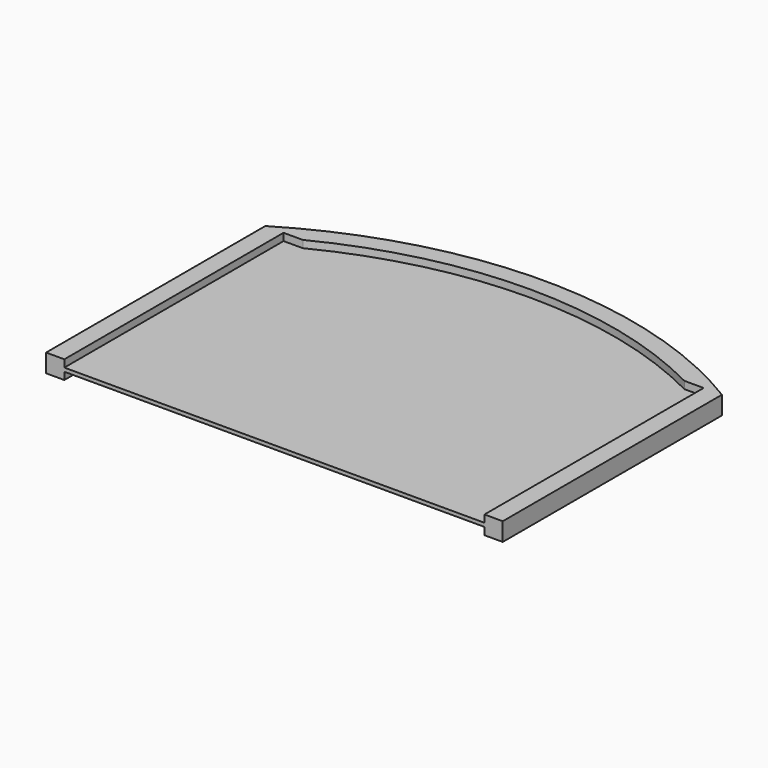
from build123d import *

# Parameters (mm, degrees)
F1_DEPTH = 10
F3_DEPTH = 4
F4_DEPTH = 4


with BuildPart() as f1:
    # F0 (on Top) → F1 (new body)
    with BuildSketch(Plane.XY):
        with BuildLine():
            Line((115, 150), (115, 0))
            Line((115, 0), (125, 0))
            Line((125, 0), (125, 150))
            ThreePointArc((125, 150), (0, 185), (-125, 150))
            Line((-125, 150), (-125, 0))
            Line((-125, 0), (-115, 0))
            Line((-115, 0), (-115, 150))
            Line((-115, 150), (-104.454365, 150))
            ThreePointArc((-104.454365, 150), (0, 175), (104.454365, 150))
            Line((104.454365, 150), (115, 150))
        make_face()
        with BuildLine():
            Line((-115, 0), (115, 0))
            Line((115, 0), (115, 150))
            Line((115, 150), (104.454365, 150))
            ThreePointArc((104.454365, 150), (0, 175), (-104.454365, 150))
            Line((-104.454365, 150), (-115, 150))
            Line((-115, 150), (-115, 0))
        make_face()
    extrude(amount=F1_DEPTH)

    # F2 (on face) → F3 (cut)
    with BuildSketch(Plane.XY.offset(10)):
        with BuildLine():
            Line((-115, 150), (-115, 0))
            Line((-115, 0), (115, 0))
            Line((115, 0), (115, 150))
            Line((115, 150), (104.454365, 150))
            ThreePointArc((104.454365, 150), (0, 175), (-104.454365, 150))
            Line((-104.454365, 150), (-115, 150))
        make_face()
    extrude(amount=-F3_DEPTH, mode=Mode.SUBTRACT)

    # F0 (on Top) → F4 (cut)
    with BuildSketch(Plane.XY):
        with BuildLine():
            Line((-115, 0), (115, 0))
            Line((115, 0), (115, 150))
            Line((115, 150), (104.454365, 150))
            ThreePointArc((104.454365, 150), (0, 175), (-104.454365, 150))
            Line((-104.454365, 150), (-115, 150))
            Line((-115, 150), (-115, 0))
        make_face()
    extrude(amount=F4_DEPTH, mode=Mode.SUBTRACT)


solid = f1.part
